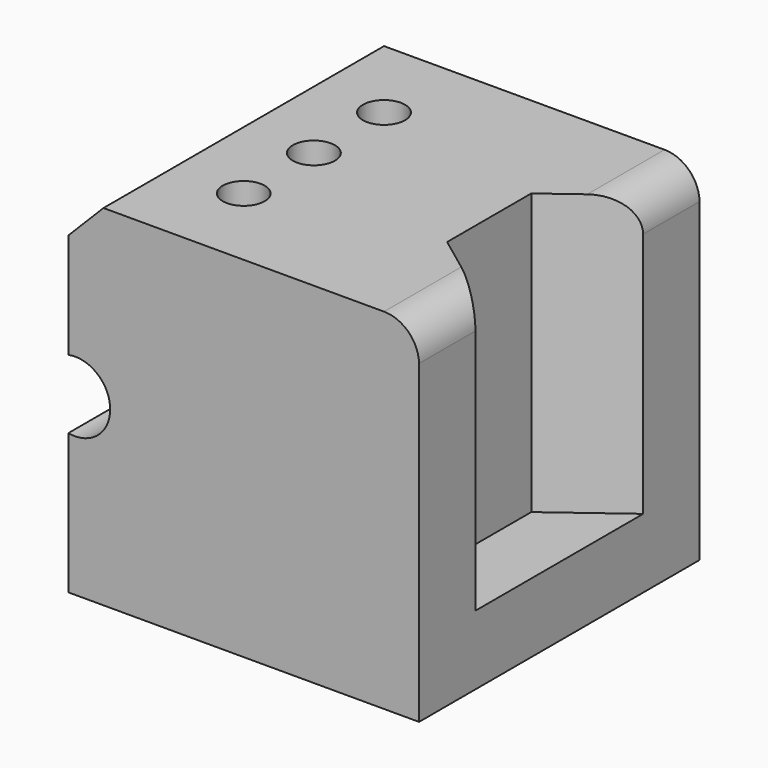
from build123d import *

# Parameters (mm, degrees)
F1_DEPTH = 100
F2_R     = 6
F3_DEPTH = 100
F6_DEPTH = 80


with BuildPart() as f1:
    # F0 (on Front) → F1 (new body)
    with BuildSketch(Plane.XZ):
        with BuildLine():
            Line((38.064276, 57.996265), (-41.935724, 57.996265))
            Line((-41.935724, 57.996265), (-51.938739, 47.870598))
            Line((-51.938739, 47.870598), (-51.938739, 17.870598))
            ThreePointArc((-51.938739, 17.870598), (-40.021038, 8.056199), (-51.938739, -1.7582))
            Line((-51.938739, -1.7582), (-51.938739, -41.7582))
            Line((-51.938739, -41.7582), (48.061261, -41.7582))
            Line((48.061261, -41.7582), (48.061261, 48.2418))
            ThreePointArc((48.061261, 48.2418), (45.047994, 55.153616), (38.064276, 57.996265))
        make_face()
    extrude(amount=F1_DEPTH)

    # F2 (on face) → F3 (cut)
    with BuildSketch(Plane.XY.offset(57.996265)):
        with Locations((-21.938739, -25)):
            Circle(F2_R)
        with Locations((-21.938739, -75)):
            Circle(F2_R)
        with Locations((-21.938739, -50)):
            Circle(F2_R)
    extrude(amount=-F3_DEPTH, mode=Mode.SUBTRACT)

    # F5 (on face) → F6 (cut)
    with BuildSketch(Plane.XY.offset(57.996265)):
        Polygon((48.192121, -20), (28.061261, -35), (28.061261, -65), (48.192121, -80), align=None)
    extrude(amount=-F6_DEPTH, mode=Mode.SUBTRACT)


solid = f1.part
